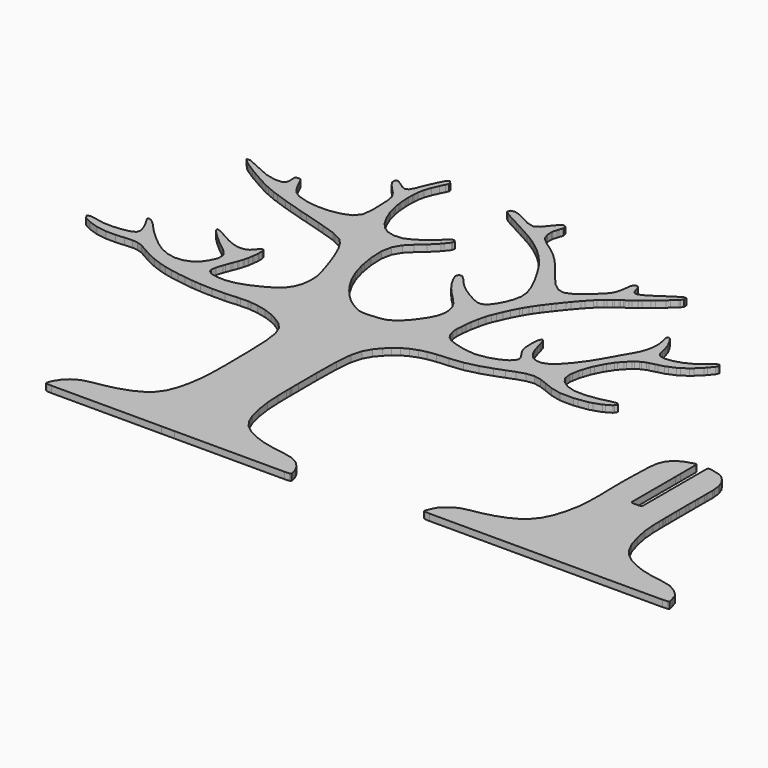
from build123d import *

# Parameters (mm, degrees)
F1_DEPTH = 50.8
F3_DEPTH = 50.8


with BuildPart() as f1:
    # F0 (on Top) → F1 (new body)
    with BuildSketch(Plane.XY):
        Polygon((-5418.75218, 1946.96842), (-5439.14838, 1936.52902), (-5425.10218, 1913.54202), (-5371.81298, 1884.68762), (-5297.87358, 1859.97342), (-5221.85138, 1849.43242), (-5147.88658, 1848.77202), (-5080.19304, 1853.64882), (-5022.91858, 1857.61122), (-4980.24658, 1854.20762), (-4939.75898, 1840.05982), (-4889.06058, 1811.89122), (-4830.97078, 1778.92456), (-4768.35978, 1750.37242), (-4706.23138, 1727.33462), (-4649.61478, 1710.90082), (-4593.98878, 1698.63262), (-4534.67724, 1688.11702), (-4473.89758, 1679.22702), (-4413.69958, 1671.91182), (-4391.55078, 1670.18462), (-4343.29078, 1666.45082), (-4251.79744, 1663.22502), (-4154.34018, 1663.65682), (-4066.09804, 1669.14322), (-4040.21798, 1669.95602), (-3983.80458, 1671.75942), (-3958.78558, 1669.19402), (-3904.25178, 1663.58062), (-3831.45538, 1647.01982), (-3769.45398, 1624.54082), (-3714.10738, 1596.16902), (-3661.27538, 1562.03142), (-3617.94298, 1514.45722), (-3590.99358, 1445.87722), (-3576.33778, 1336.22542), (-3569.86078, 1165.51202), (-3568.00658, 1012.55322), (-3567.24458, 956.21602), (-3567.193831, 953.602766), (-3567.193805, 953.601725), (-3567.193805, 953.600887), (-3567.19378, 953.600303), (-3567.19378, 953.599947), (-3567.19378, 953.59982), (-3567.09218, 947.935874), (-3567.09218, 947.93562), (-3567.09218, 939.17262), (-3567.57478, 905.00962), (-3568.89558, 820.52922), (-3575.09318, 713.34122), (-3590.15538, 611.08082), (-3612.50738, 521.85062), (-3640.47278, 453.67702), (-3679.33478, 400.51482), (-3696.65504, 386.59562), (-3734.42738, 356.29342), (-3756.11898, 345.06662), (-3803.41378, 320.58102), (-3884.05878, 292.94582), (-3969.75838, 272.37182), (-4053.93398, 257.84302), (-4127.97244, 239.45342), (-4183.27078, 207.27162), (-4222.43758, 168.00322), (-4248.14238, 128.40462), (-4262.29018, 96.45142), (-4266.81138, 80.14462), (-4254.74638, 73.79462), (-4219.16098, 71.66102), (-3368.63944, 71.66102), (-3362.28944, 75.06462), (-3360.15838, 85.19922), (-3360.05678, 137.11682), (-3359.77738, 265.84402), (-3359.34558, 426.82922), (-3358.83758, 575.54622), (-3358.22798, 708.87082), (-3357.61838, 823.70422), (-3357.13578, 905.08582), (-3356.93258, 938.10582), (-3352.35804, 944.98922), (-3338.61918, 947.96356), (-3320.33118, 948.46902), (-3302.01778, 947.96356), (-3288.30178, 945.29402), (-3283.705218, 939.326112), (-3283.704583, 939.325299), (-3283.70438, 939.32502), (-3283.52658, 906.91462), (-3283.37418, 881.10822), (-3283.04398, 824.89802), (-3282.84078, 788.49982), (-3282.40898, 709.17562), (-3281.82478, 575.54622), (-3281.29138, 427.31182), (-3280.88498, 267.74902), (-3280.60558, 139.96162), (-3280.50398, 87.10422), (-3278.116482, 75.522353), (-3278.11638, 75.52182), (-3271.00471, 71.661198), (-3271.00438, 71.66102), (-2421.93318, 71.66102), (-2386.34778, 73.87082), (-2374.25738, 80.42402), (-2377.102053, 97.113598), (-2377.10218, 97.11436), (-2386.27158, 129.64922), (-2406.97512, 169.75582), (-2444.48838, 209.17662), (-2501.43518, 241.12982), (-2580.47998, 258.80822), (-2669.58318, 272.60042), (-2756.73058, 292.94582), (-2837.14698, 320.58102), (-2906.08258, 356.29342), (-2961.17518, 400.51482), (-2973.39258, 417.22802), (-3000.03718, 453.67702), (-3008.85098, 475.11462), (-3028.00258, 521.85062), (-3050.35458, 611.08082), (-3065.41678, 713.64602), (-3071.61438, 821.77382), (-3072.93518, 906.86382), (-3073.41778, 940.41722), (-3073.493955, 948.797696), (-3073.49398, 948.798839), (-3073.49398, 948.79922), (-3073.57018, 958.450788), (-3073.57018, 958.45122), (-3073.84958, 1022.73862), (-3074.56078, 1195.07762), (-3071.46198, 1386.94922), (-3060.36218, 1509.80902), (-3039.10238, 1588.82842), (-3005.54898, 1649.25502), (-2966.02658, 1696.47362), (-2926.80898, 1735.81822), (-2884.13698, 1768.25402), (-2834.27678, 1794.61922), (-2780.80978, 1814.91382), (-2727.36818, 1829.03622), (-2661.50598, 1838.56122), (-2570.90418, 1844.96202), (-2468.77078, 1856.23962), (-2368.38998, 1880.39502), (-2278.37238, 1909.70662), (-2207.32858, 1936.37662), (-2146.08918, 1959.64302), (-2085.48478, 1978.76922), (-2026.65838, 1986.54162), (-1970.77838, 1975.84822), (-1912.94258, 1954.08042), (-1848.17258, 1928.62962), (-1768.08638, 1910.08762), (-1664.27658, 1908.89382), (-1631.10418, 1913.41502), (-1558.86658, 1923.19402), (-1532.14578, 1931.95702), (-1474.00518, 1951.05782), (-1456.42838, 1961.14162), (-1418.15058, 1983.11262), (-1412.33398, 1991.59622), (-1399.71018, 2010.03662), (-1416.24558, 2023.14302), (-1465.31838, 2013.74502), (-1488.51112, 2008.15702), (-1538.95298, 1995.96502), (-1567.35272, 1992.20582), (-1629.17378, 1983.95082), (-1657.18998, 1984.33182), (-1718.14998, 1985.11922), (-1740.09558, 1991.97722), (-1787.94918, 2006.88702), (-1803.44318, 2017.80902), (-1837.19978, 2041.65962), (-1845.78498, 2054.30882), (-1864.47938, 2081.89322), (-1866.638278, 2098.580258), (-1866.63838, 2098.58102), (-1871.36278, 2134.90302), (-1867.603758, 2157.863579), (-1867.60358, 2157.86462), (-1859.39938, 2207.90262), (-1851.16978, 2233.09942), (-1833.18658, 2287.93802), (-1821.88358, 2311.22982), (-1797.27098, 2361.95362), (-1784.72338, 2381.53702), (-1757.41838, 2424.20902), (-1745.45498, 2438.25522), (-1719.39458, 2468.86222), (-1708.06618, 2478.99682), (-1683.32658, 2501.24722), (-1672.709863, 2509.120864), (-1672.70938, 2509.12122), (-1649.34138, 2526.64722), (-1636.84458, 2532.59082), (-1609.46338, 2545.74802), (-1592.47078, 2550.09142), (-1555.66618, 2559.26082), (-1535.75512, 2564.62022), (-1492.72498, 2575.87242), (-1471.49058, 2584.86402), (-1425.36418, 2604.29502), (-1404.07898, 2617.85862), (-1357.74938, 2647.32262), (-1337.65798, 2666.34722), (-1293.99538, 2707.72382), (-1279.82218, 2724.58942), (-1249.03738, 2761.21622), (-1241.29038, 2776.48162), (-1237.73438, 2783.54282), (-1241.696602, 2788.419391), (-1241.69678, 2788.41962), (-1243.524843, 2790.679306), (-1243.52525, 2790.679814), (-1243.525504, 2790.680118), (-1243.52558, 2790.68022), (-1245.506678, 2793.194693), (-1245.50678, 2793.19482), (-1249.79938, 2798.70662), (-1263.08612, 2794.13462), (-1269.207241, 2791.975722), (-1269.20752, 2791.97562), (-1300.16758, 2766.62642), (-1314.44238, 2754.89162), (-1355.74278, 2723.87822), (-1374.74198, 2709.57802), (-1419.03958, 2688.03882), (-1439.41038, 2678.15822), (-1482.33638, 2665.55982), (-1502.04678, 2659.79402), (-1539.25778, 2655.57762), (-1556.32658, 2653.69802), (-1568.89958, 2656.26342), (-1596.28078, 2661.67362), (-1602.452701, 2669.16629), (-1602.45298, 2669.16662), (-1615.91498, 2685.49882), (-1625.261748, 2719.279271), (-1625.26218, 2719.28082), (-1634.32998, 2757.07602), (-1647.84278, 2798.68122), (-1670.39798, 2843.94402), (-1693.94378, 2877.70062), (-1710.40298, 2884.81262), (-1717.26098, 2870.53528), (-1712.00318, 2840.15942), (-1703.24018, 2801.37362), (-1699.55718, 2761.97822), (-1702.07178, 2720.70322), (-1711.92698, 2676.32942), (-1728.69098, 2631.01582), (-1736.03158, 2617.09662), (-1752.03358, 2586.84522), (-1762.47298, 2568.91282), (-1785.18058, 2529.89842), (-1799.73478, 2503.55862), (-1831.38318, 2446.22828), (-1869.83878, 2382.32442), (-1887.46638, 2352.98742), (-1930.51938, 2294.18642), (-1950.28058, 2267.21162), (-1969.15278, 2246.18042), (-2010.30078, 2200.28262), (-2025.28678, 2188.72562), (-2057.97658, 2163.50342), (-2097.87998, 2148.74602), (-2134.53218, 2147.90782), (-2166.18058, 2158.27102), (-2191.04718, 2177.03908), (-2210.83378, 2202.49242), (-2227.26758, 2232.87082), (-2232.06818, 2245.95182), (-2242.55838, 2274.50142), (-2247.66378, 2293.09168), (-2258.83978, 2333.68342), (-2263.89438, 2348.64402), (-2274.91798, 2381.30842), (-2279.489142, 2383.467039), (-2279.489777, 2383.467318), (-2279.48998, 2383.46742), (-2289.522523, 2388.191617), (-2289.52298, 2388.19182), (-2300.11478, 2359.69302), (-2304.12798, 2301.06728), (-2301.10538, 2239.24622), (-2290.61518, 2200.99382), (-2285.71298, 2192.68802), (-2275.02212, 2174.55242), (-2269.279434, 2166.221601), (-2269.27918, 2166.22122), (-2256.73158, 2148.08562), (-2252.007383, 2140.211976), (-2252.00718, 2140.21162), (-2241.695263, 2123.042007), (-2241.69478, 2123.04122), (-2239.840656, 2116.08195), (-2239.84058, 2116.08162), (-2235.82738, 2100.89242), (-2238.519653, 2093.75535), (-2238.51978, 2093.75502), (-2244.412301, 2078.208391), (-2244.41258, 2078.20768), (-2253.32798, 2069.82568), (-2272.73358, 2051.54022), (-2323.30498, 2023.95582), (-2398.64138, 1998.55582), (-2486.70318, 1985.62722), (-2575.50158, 1995.45702), (-2652.15878, 2015.82782), (-2703.87318, 2034.54762), (-2737.50532, 2058.24582), (-2759.98178, 2093.60008), (-2771.89438, 2135.15702), (-2773.82478, 2177.47342), (-2770.92918, 2218.03722), (-2768.33838, 2254.38462), (-2762.98152, 2296.24382), (-2751.80298, 2353.49288), (-2738.11238, 2409.37542), (-2725.25998, 2447.14522), (-2711.26458, 2479.40322), (-2694.22118, 2518.69702), (-2672.96138, 2564.54402), (-2646.29138, 2616.36002), (-2636.284237, 2633.504233), (-2636.28378, 2633.50502), (-2614.46518, 2670.86842), (-2602.90818, 2687.81022), (-2577.73678, 2724.69102), (-2563.61438, 2743.28382), (-2532.82958, 2784.05082), (-2515.07498, 2806.19962), (-2476.41618, 2855.17082), (-2457.82338, 2876.98942), (-2417.31038, 2925.17322), (-2400.674142, 2942.800007), (-2400.67338, 2942.80082), (-2364.37678, 2981.28182), (-2349.84864, 2994.997185), (-2349.84798, 2994.99782), (-2318.19958, 3024.69042), (-2306.008139, 3034.849963), (-2306.00758, 3034.85042), (-2279.43918, 3056.71982), (-2269.63478, 3063.88262), (-2248.22512, 3079.14802), (-2240.83118, 3083.84702), (-2224.62598, 3093.75302), (-2215.88838, 3099.59502), (-2196.66058, 3112.06388), (-2182.84298, 3122.63282), (-2152.38838, 3145.56902), (-2134.02418, 3160.50422), (-2093.76518, 3193.04162), (-2071.38778, 3212.01542), (-2022.69598, 3253.31582), (-2004.43338, 3269.72422), (-1964.80938, 3305.41122), (-1958.78958, 3312.65022), (-1945.68318, 3328.39822), (-1945.835326, 3331.694861), (-1945.835402, 3331.696486), (-1945.835478, 3331.697832), (-1945.835529, 3331.698874), (-1945.83558, 3331.700068), (-1945.83558, 3331.70022), (-1946.140355, 3338.83729), (-1946.14038, 3338.83762), (-1946.447695, 3343.384017), (-1946.44772, 3343.38422), (-1947.054755, 3353.289763), (-1947.05478, 3353.29022), (-1962.827469, 3351.080522), (-1962.82818, 3351.08042), (-1970.064234, 3350.064826), (-1970.065859, 3350.064598), (-1970.06685, 3350.064471), (-1970.06718, 3350.06442), (-2015.91418, 3320.87982), (-2036.91998, 3307.49402), (-2091.22518, 3270.66402), (-2116.06638, 3253.77302), (-2157.18898, 3228.67782), (-2176.009516, 3217.172153), (-2176.01038, 3217.17162), (-2203.92498, 3207.03702), (-2216.700596, 3202.389023), (-2216.70118, 3202.38882), (-2231.40778, 3210.46602), (-2238.136037, 3214.198296), (-2238.137561, 3214.199134), (-2238.138475, 3214.199642), (-2238.13878, 3214.19982), (-2241.38998, 3222.35322), (-2248.52738, 3240.08242), (-2250.91498, 3248.74382), (-2256.12452, 3267.56522), (-2259.32238, 3273.78822), (-2266.28198, 3287.30102), (-2271.971326, 3288.113795), (-2271.97158, 3288.11382), (-2284.34138, 3289.89182), (-2289.72397, 3286.159544), (-2289.725189, 3286.158706), (-2289.725926, 3286.158198), (-2289.72618, 3286.15802), (-2301.41018, 3278.08082), (-2306.31238, 3261.97722), (-2308.55012, 3254.58582), (-2310.70658, 3233.30062), (-2311.725069, 3223.522077), (-2311.72512, 3223.52162), (-2315.27858, 3199.82342), (-2316.928894, 3188.931265), (-2316.929275, 3188.928801), (-2316.929504, 3188.927328), (-2316.92958, 3188.92682), (-2322.94938, 3165.53342), (-2325.74592, 3154.78922), (-2335.34712, 3134.39302), (-2339.738577, 3125.020852), (-2339.73878, 3125.02042), (-2357.89978, 3102.59222), (-2366.23098, 3092.33062), (-2397.93018, 3062.84122), (-2412.45898, 3049.30302), (-2429.57858, 3035.18062), (-2466.86578, 3004.34502), (-2482.94398, 2992.22922), (-2517.91978, 2965.81322), (-2533.413069, 2959.511759), (-2533.41378, 2959.51148), (-2567.19578, 2945.77262), (-2582.66438, 2949.07462), (-2616.34478, 2956.28822), (-2632.90558, 2968.81042), (-2669.02438, 2996.06208), (-2687.82038, 3017.37522), (-2728.86932, 3063.80642), (-2747.33258, 3087.35222), (-2787.71858, 3138.60942), (-2803.33958, 3157.78642), (-2837.45178, 3199.56942), (-2852.23458, 3215.95242), (-2884.56878, 3251.61402), (-2900.59618, 3266.77782), (-2935.67358, 3299.74702), (-2953.04718, 3313.66622), (-2991.02018, 3343.94302), (-3009.81618, 3356.61762), (-3050.88798, 3384.20202), (-3065.847894, 3397.63801), (-3065.84858, 3397.63862), (-3098.58918, 3426.87402), (-3104.48198, 3443.05382), (-3117.43598, 3478.28362), (-3116.41998, 3513.20862), (-3115.98818, 3529.23602), (-3106.84418, 3557.55702), (-3102.85638, 3570.51102), (-3095.54118, 3592.63442), (-3092.44238, 3602.74362), (-3094.575116, 3610.208172), (-3094.575599, 3610.209848), (-3094.575878, 3610.21089), (-3094.57598, 3610.21122), (-3099.099517, 3626.568083), (-3099.09972, 3626.56882), (-3105.186297, 3628.370188), (-3105.18876, 3628.370925), (-3105.190691, 3628.371483), (-3105.192062, 3628.37189), (-3105.192901, 3628.372144), (-3105.19318, 3628.37222), (-3118.50278, 3632.28382), (-3127.267914, 3625.29915), (-3127.26832, 3625.29882), (-3146.36658, 3610.13502), (-3156.57738, 3598.17162), (-3178.85318, 3572.13662), (-3189.34338, 3558.97942), (-3212.20338, 3530.30282), (-3240.09258, 3513.51342), (-3252.89418, 3505.81722), (-3270.03664, 3510.23682), (-3307.42798, 3519.86342), (-3325.68804, 3529.46462), (-3365.44158, 3550.36882), (-3381.51978, 3558.19202), (-3416.52098, 3575.25828), (-3429.60198, 3578.99462), (-3458.10078, 3587.12262), (-3467.368808, 3584.430347), (-3467.36924, 3584.43022), (-3487.56224, 3578.53742), (-3489.368104, 3572.111525), (-3489.36818, 3572.11122), (-3493.27978, 3558.11582), (-3472.93438, 3541.93602), (-3463.56178, 3534.49382), (-3424.62358, 3513.56422), (-3406.740253, 3503.963452), (-3406.73944, 3503.96302), (-3354.95138, 3475.79442), (-3331.12618, 3462.89122), (-3279.81818, 3434.74802), (-3256.17078, 3421.87022), (-3218.68038, 3401.04222), (-3201.38298, 3391.51722), (-3168.46458, 3371.37502), (-3153.301466, 3362.155252), (-3153.30078, 3362.15482), (-3115.75958, 3336.04362), (-3098.53838, 3324.08022), (-3060.23518, 3293.62562), (-3042.70918, 3279.65562), (-3007.53018, 3246.53402), (-2991.45452, 3231.29402), (-2959.19398, 3195.48002), (-2944.46198, 3179.02082), (-2914.92178, 3140.48648), (-2901.43438, 3122.81062), (-2871.13218, 3075.89682), (-2857.26378, 3054.33222), (-2841.41418, 3026.33888), (-2806.84478, 2965.35602), (-2763.33458, 2876.02422), (-2739.96658, 2806.60602), (-2734.91198, 2746.99222), (-2746.39278, 2687.09902), (-2767.93198, 2631.62542), (-2793.07798, 2585.29582), (-2818.63038, 2550.32002), (-2841.41418, 2528.80622), (-2865.21398, 2519.61142), (-2893.86518, 2521.56722), (-2932.80338, 2536.68022), (-2987.51498, 2566.93162), (-3042.83618, 2602.89802), (-3083.67938, 2635.23222), (-3117.18198, 2668.45542), (-3150.55758, 2707.08882), (-3180.63118, 2734.16268), (-3204.25318, 2732.71742), (-3212.25418, 2707.59682), (-3206.996609, 2693.805255), (-3206.99638, 2693.80462), (-3195.56638, 2663.73102), (-3186.19378, 2647.98302), (-3165.82298, 2613.69302), (-3156.04398, 2599.97702), (-3134.75878, 2570.10662), (-3096.63338, 2525.91062), (-3080.60598, 2509.60382), (-3045.73178, 2474.04382), (-2998.81798, 2421.94842), (-2990.56298, 2407.77522), (-2972.60518, 2376.96502), (-2969.252532, 2363.45283), (-2969.25238, 2363.45222), (-2961.88638, 2334.01362), (-2961.45458, 2288.03962), (-2972.45278, 2240.16062), (-2995.97318, 2191.51962), (-3026.96118, 2144.02162), (-3060.23518, 2099.47002), (-3096.30318, 2059.79522), (-3135.67318, 2026.92762), (-3176.49098, 2003.94062), (-3216.87698, 1993.88222), (-3248.70318, 1991.03742), (-3263.76284, 1989.69122), (-3275.06584, 1988.54822), (-3295.51538, 1986.36128), (-3321.11858, 1984.99222), (-3347.89018, 1986.36128), (-3369.35318, 1988.85302), (-3379.055548, 1990.859518), (-3379.05598, 1990.85962), (-3388.09838, 1995.02522), (-3407.50398, 2003.99142), (-3435.57098, 2018.69802), (-3470.57218, 2040.16102), (-3510.65338, 2071.02202), (-3524.31858, 2084.53482), (-3554.08738, 2113.92262), (-3567.77798, 2130.12782), (-3597.59758, 2165.45922), (-3610.32298, 2183.31288), (-3638.03438, 2222.22822), (-3649.768647, 2243.00448), (-3649.76918, 2243.00542), (-3675.37238, 2288.24282), (-3686.16738, 2313.21102), (-3709.66238, 2367.56702), (-3718.55238, 2397.46282), (-3737.93004, 2462.58842), (-3744.02858, 2498.19922), (-3757.28738, 2575.77082), (-3761.96098, 2683.26362), (-3746.23838, 2761.21622), (-3711.97378, 2820.32202), (-3661.04678, 2871.29982), (-3602.19498, 2922.30302), (-3544.13058, 2981.53582), (-3531.22738, 2997.36002), (-3503.16038, 3031.77702), (-3500.79818, 3039.37162), (-3495.66738, 3055.85622), (-3498.232323, 3058.903661), (-3498.232653, 3058.904093), (-3498.23278, 3058.90422), (-3503.820526, 3065.533315), (-3503.82078, 3065.53362), (-3509.78724, 3072.64562), (-3528.96678, 3062.73708), (-3543.974954, 3049.710004), (-3543.97564, 3049.70942), (-3576.66798, 3021.33762), (-3596.35298, 3004.59902), (-3639.22818, 2968.12462), (-3659.267866, 2953.79968), (-3659.26878, 2953.79902), (-3702.90598, 2922.65862), (-3767.34578, 2893.42322), (-3832.19198, 2888.82582), (-3850.631542, 2893.550017), (-3850.63238, 2893.55022), (-3890.84058, 2903.83468), (-3905.29318, 2913.15902), (-3936.76378, 2933.47902), (-3963.17978, 2965.17822), (-3975.29558, 2979.73242), (-4000.31458, 3024.18242), (-4011.794847, 3044.65388), (-4011.79538, 3044.65482), (-4032.08998, 3094.48708), (-4041.38638, 3117.40042), (-4053.60378, 3165.22862), (-4059.19178, 3187.14882), (-4065.56718, 3232.38622), (-4068.488053, 3253.08628), (-4068.48818, 3253.08722), (-4071.30758, 3295.12422), (-4072.60044, 3314.40282), (-4072.57758, 3331.699433), (-4072.57758, 3331.70022), (-4072.52424, 3369.41922), (-4071.51078, 3384.25282), (-4069.30098, 3416.53622), (-4060.10618, 3462.66262), (-4042.09758, 3514.78088), (-4021.16798, 3563.32282), (-4003.10858, 3598.80662), (-3992.44058, 3622.37782), (-3993.710529, 3635.277896), (-3993.71058, 3635.27848), (-4001.20325, 3643.129264), (-4001.20358, 3643.12962), (-4009.25538, 3651.58782), (-4019.846697, 3651.105245), (-4019.84718, 3651.10522), (-4034.88398, 3632.17968), (-4053.73078, 3597.66362), (-4075.77544, 3550.39422), (-4098.07664, 3498.27342), (-4104.251101, 3482.830931), (-4104.25138, 3482.83022), (-4117.71338, 3449.14982), (-4124.037701, 3438.253728), (-4124.03798, 3438.25322), (-4137.77938, 3414.47882), (-4161.32518, 3405.71582), (-4190.10338, 3416.99342), (-4225.79038, 3442.52042), (-4257.61658, 3461.29102), (-4274.83778, 3452.35022), (-4274.098665, 3426.138614), (-4274.09864, 3426.13742), (-4252.18098, 3393.14282), (-4218.98318, 3356.82082), (-4184.46458, 3320.54962), (-4175.95558, 3307.41782), (-4157.41358, 3278.79202), (-4154.03538, 3262.18042), (-4146.66938, 3225.93462), (-4145.80578, 3204.39542), (-4143.92364, 3157.48162), (-4142.96098, 3129.66862), (-4140.87818, 3069.03882), (-4144.15224, 3043.43562), (-4151.31758, 2987.63182), (-4163.17938, 2972.79822), (-4189.06198, 2940.38528), (-4208.390491, 2932.410036), (-4208.39138, 2932.40968), (-4250.73318, 2914.91162), (-4276.462212, 2909.882649), (-4276.46338, 2909.88242), (-4333.00378, 2898.80802), (-4361.95978, 2897.84282), (-4425.89158, 2895.68382), (-4454.99744, 2899.84942), (-4519.46518, 2909.06962), (-4543.36658, 2916.28322), (-4596.30018, 2932.25982), (-4609.60978, 2940.43862), (-4639.021634, 2958.522582), (-4639.02298, 2958.52342), (-4646.54138, 2967.92142), (-4663.10218, 2988.62242), (-4669.60458, 2999.44282), (-4683.92952, 3023.292328), (-4683.93018, 3023.29342), (-4689.390926, 3034.113337), (-4689.39118, 3034.11382), (-4701.40538, 3057.88822), (-4705.74878, 3067.23542), (-4715.32458, 3087.75862), (-4718.905828, 3094.133741), (-4718.90598, 3094.13402), (-4726.80538, 3108.18022), (-4729.980228, 3110.135918), (-4729.98038, 3110.13602), (-4736.93965, 3114.453817), (-4736.93998, 3114.45402), (-4740.216428, 3114.174645), (-4740.21658, 3114.17462), (-4747.35398, 3113.59042), (-4751.239469, 3113.285671), (-4751.240002, 3113.285645), (-4751.24018, 3113.28562), (-4759.696831, 3112.574547), (-4759.697999, 3112.574445), (-4759.69838, 3112.57442), (-4762.516637, 3110.086236), (-4762.517272, 3110.085677), (-4762.517653, 3110.085322), (-4762.51778, 3110.08522), (-4768.71538, 3104.59882), (-4768.893155, 3097.767465), (-4768.89318, 3097.766525), (-4768.89318, 3097.76622), (-4769.248755, 3082.806306), (-4769.24878, 3082.80562), (-4768.867805, 3074.170026), (-4768.86778, 3074.16962), (-4768.029631, 3055.247484), (-4768.02958, 3055.24662), (-4769.223151, 3047.297868), (-4769.223329, 3047.296776), (-4769.22338, 3047.29642), (-4771.86498, 3029.89742), (-4778.64678, 3024.58882), (-4793.553862, 3012.932354), (-4793.555894, 3012.930753), (-4793.55658, 3012.93022), (-4810.01578, 3012.16568), (-4846.03298, 3010.51722), (-4871.35678, 3016.46082), (-4926.70338, 3029.43768), (-4960.18058, 3044.24842), (-5033.02778, 3076.48102), (-5060.76204, 3089.05402), (-5120.83558, 3116.28282), (-5128.785424, 3115.393871), (-5128.78578, 3115.39382), (-5145.95618, 3113.51422), (-5135.542663, 3102.491128), (-5135.54218, 3102.49062), (-5113.11398, 3078.76448), (-5085.85978, 3061.03528), (-5027.03338, 3022.70922), (-4994.67378, 3004.06562), (-4924.49358, 2963.60342), (-4898.63638, 2949.81122), (-4842.24838, 2919.70968), (-4813.90198, 2907.52022), (-4751.90058, 2880.82482), (-4712.25118, 2867.03262), (-4625.15458, 2836.70502), (-4576.43738, 2821.56662), (-4469.04618, 2788.21388), (-4413.39478, 2772.03662), (-4290.61118, 2736.32422), (-4242.85918, 2721.03342), (-4138.05878, 2687.42922), (-4113.42078, 2675.03402), (-4059.59818, 2647.95762), (-4047.15218, 2634.24162), (-4020.02498, 2604.39662), (-3995.38698, 2562.51202), (-3984.10938, 2543.23342), (-3961.24938, 2491.39202), (-3950.75918, 2467.59222), (-3940.77698, 2440.26182), (-3918.95838, 2380.47022), (-3910.37318, 2354.30568), (-3891.65338, 2297.05662), (-3885.40498, 2276.71122), (-3871.79058, 2232.46442), (-3868.20918, 2214.35422), (-3860.41138, 2175.06042), (-3859.85258, 2155.57862), (-3858.60798, 2113.21142), (-3866.78678, 2052.68322), (-3885.30338, 1999.24162), (-3918.22178, 1951.99762), (-3969.58058, 1910.08762), (-4035.72218, 1871.98508), (-4112.86198, 1836.22442), (-4191.88138, 1809.78302), (-4263.53478, 1799.59762), (-4282.81338, 1800.18182), (-4324.79958, 1801.45182), (-4339.83638, 1804.52522), (-4372.59984, 1811.23082), (-4403.23478, 1829.03622), (-4413.06458, 1855.02042), (-4407.42578, 1891.67262), (-4391.67778, 1941.45408), (-4385.58178, 1957.78882), (-4372.29758, 1993.37422), (-4367.01438, 2006.88702), (-4355.63518, 2036.37642), (-4351.49498, 2048.06042), (-4342.55164, 2073.58742), (-4339.760307, 2084.432737), (-4339.76018, 2084.43322), (-4333.79118, 2108.10602), (-4331.83538, 2119.76462), (-4327.54278, 2145.16462), (-4325.841056, 2159.260985), (-4325.84098, 2159.26162), (-4322.03098, 2189.97022), (-4321.85318, 2202.593436), (-4321.85318, 2202.59402), (-4321.34518, 2230.07682), (-4323.986297, 2237.314499), (-4323.986653, 2237.31549), (-4323.98678, 2237.31582), (-4329.69924, 2253.06382), (-4334.603751, 2253.495595), (-4334.60398, 2253.49562), (-4345.32278, 2254.48622), (-4351.923935, 2246.714176), (-4351.92424, 2246.71382), (-4366.48098, 2229.89902), (-4374.93918, 2220.45022), (-4393.60818, 2200.02862), (-4404.07298, 2195.45662), (-4427.18698, 2185.65222), (-4439.58218, 2185.27122), (-4466.83638, 2184.56002), (-4481.06038, 2187.70708), (-4512.20078, 2194.61842), (-4529.24418, 2201.70502), (-4566.40438, 2217.14822), (-4587.33398, 2228.62902), (-4632.59678, 2253.49562), (-4650.65618, 2263.17302), (-4689.64518, 2284.12802), (-4698.12878, 2285.82982), (-4716.39138, 2289.46202), (-4710.24458, 2274.52682), (-4707.501507, 2267.719925), (-4707.50138, 2267.71962), (-4673.31298, 2232.99782), (-4657.66658, 2217.09742), (-4635.72098, 2197.86962), (-4587.86738, 2155.88342), (-4540.77578, 2119.18042), (-4519.135971, 2102.315582), (-4519.13498, 2102.31482), (-4487.74058, 2066.98342), (-4473.33944, 2050.753557), (-4473.33878, 2050.75282), (-4472.65044, 2012.93222), (-4472.348205, 1995.584807), (-4472.34818, 1995.58402), (-4480.094824, 1978.998582), (-4480.09518, 1978.99782), (-4496.90998, 1942.82822), (-4506.61278, 1928.90902), (-4527.72018, 1898.55602), (-4540.47098, 1887.98962), (-4568.23318, 1865.00262), (-4585.12418, 1858.52562), (-4621.87798, 1844.40322), (-4683.34598, 1839.17082), (-4747.35398, 1851.74382), (-4811.51438, 1880.11562), (-4873.49038, 1922.33042), (-4929.44658, 1968.96482), (-4975.47138, 2010.62082), (-5011.36158, 2046.20622), (-5036.81238, 2074.62628), (-5058.37698, 2098.60642), (-5082.68478, 2120.80602), (-5105.49398, 2136.55402), (-5122.63898, 2141.15142), (-5128.35398, 2132.66782), (-5116.97478, 2109.17282), (-5098.53438, 2078.31182), (-5083.16738, 2047.75562), (-5071.20398, 2016.84382), (-5063.02518, 1984.91602), (-5071.25478, 1957.33162), (-5108.51658, 1939.45002), (-5165.28558, 1928.80742), (-5232.03678, 1922.99082), (-5302.08998, 1925.04822), (-5368.68878, 1938.07588), align=None)
        Polygon((-1442.25965, 213.815016), (-1446.17125, 199.260816), (-1434.10625, 192.910816), (-1398.52085, 190.777216), (398.70695, 190.777216), (434.29235, 192.987016), (446.38275, 199.540216), (443.84275, 214.805616), (435.53695, 243.075816), (426.84761, 270.025216), (423.192702, 281.353108), (423.19255, 281.353616), (410.87355, 294.434616), (376.15175, 326.641816), (319.20241, 360.576216), (240.16015, 378.915016), (153.39375, 392.707216), (73.28215, 413.052616), (1.01915, 439.646416), (-62.20145, 472.234616), (-115.97325, 513.308956), (-159.96605, 565.427216), (-195.62765, 634.515216), (-224.43125, 726.514016), (-243.88765, 824.735816), (-251.53305, 912.391216), (-252.82845, 976.907216), (-253.33645, 1005.685416), (-253.43805, 1017.293216), (-253.53965, 1030.348816), (-253.61585, 1040.841556), (-253.84445, 1064.664216), (-254.04765, 1087.729956), (-254.53025, 1140.026016), (-254.70805, 1168.880416), (-255.08905, 1234.310816), (-255.06365, 1262.200016), (-255.01285, 1325.420616), (-254.91125, 1351.658816), (-254.68265, 1411.094816), (-254.60645, 1434.996216), (-254.45405, 1489.072816), (-256.25745, 1509.291216), (-260.34685, 1555.036616), (-265.88405, 1570.251216), (-278.43165, 1604.693616), (-302.58705, 1639.948816), (-326.64085, 1662.603076), (-345.64005, 1675.102416), (-354.555044, 1679.928212), (-354.55545, 1679.928416), (-367.05225, 1683.001816), (-396.74485, 1690.342416), (-428.44405, 1697.429016), (-446.93779, 1699.791216), (-455.87605, 1696.895616), (-458.847317, 1688.21039), (-458.847723, 1688.209222), (-458.84785, 1688.208816), (-458.84785, 1622.321216), (-458.82245, 1581.427216), (-458.82245, 1494.762416), (-458.84785, 1440.965216), (-458.84785, 1074.976616), (-463.851422, 1064.537698), (-463.85165, 1064.537216), (-478.93925, 1061.032016), (-520.44285, 1061.032016), (-536.52105, 1063.673616), (-541.85505, 1071.522216), (-541.85505, 1493.416216), (-541.88045, 1540.812616), (-541.88045, 1685.135416), (-543.68385, 1696.133616), (-549.093822, 1699.791063), (-549.09405, 1699.791216), (-562.93959, 1696.921016), (-590.04139, 1688.333276), (-616.58185, 1679.318816), (-628.74845, 1675.178616), (-639.82285, 1669.616016), (-663.08925, 1656.382616), (-691.18165, 1633.979816), (-716.81279, 1600.934416), (-729.94205, 1567.965216), (-735.75865, 1553.362756), (-741.34665, 1507.744356), (-743.81045, 1487.447216), (-745.66465, 1432.583216), (-746.47745, 1408.250016), (-748.43325, 1347.546556), (-749.29685, 1320.848616), (-750.41699, 1256.434216), (-750.89705, 1228.138616), (-750.13505, 1162.124016), (-749.80485, 1133.066416), (-748.50945, 1081.199616), (-747.95065, 1058.314216), (-747.722076, 1048.637273), (-747.72205, 1048.636816), (-747.18865, 1026.668356), (-747.03625, 1016.378816), (-747.06165, 1005.685416), (-747.54425, 976.907216), (-748.86759, 912.391216), (-756.48505, 824.735816), (-775.96685, 726.514016), (-804.77045, 634.515216), (-840.43205, 565.427216), (-884.42485, 513.308956), (-938.19665, 472.234616), (-1001.34105, 439.646416), (-1073.37545, 413.052616), (-1151.60999, 392.478616), (-1233.29385, 377.949816), (-1307.33739, 358.899816), (-1362.60525, 324.736816), (-1397.65725, 292.199416), (-1410.96685, 278.127816), (-1416.93585, 266.291416), (-1429.94065, 240.510416), align=None)
    extrude(amount=F1_DEPTH)

    # F2 (on face) → F3 (join, through all)
    with BuildSketch(Plane.XY.offset(50.8)):
        Polygon((-3368.63944, 986.061198), (-3368.63944, 71.66102), (-3271.00471, 71.661198), (-3271.00471, 986.061198), align=None)
    extrude(amount=-F3_DEPTH)


solid = f1.part
